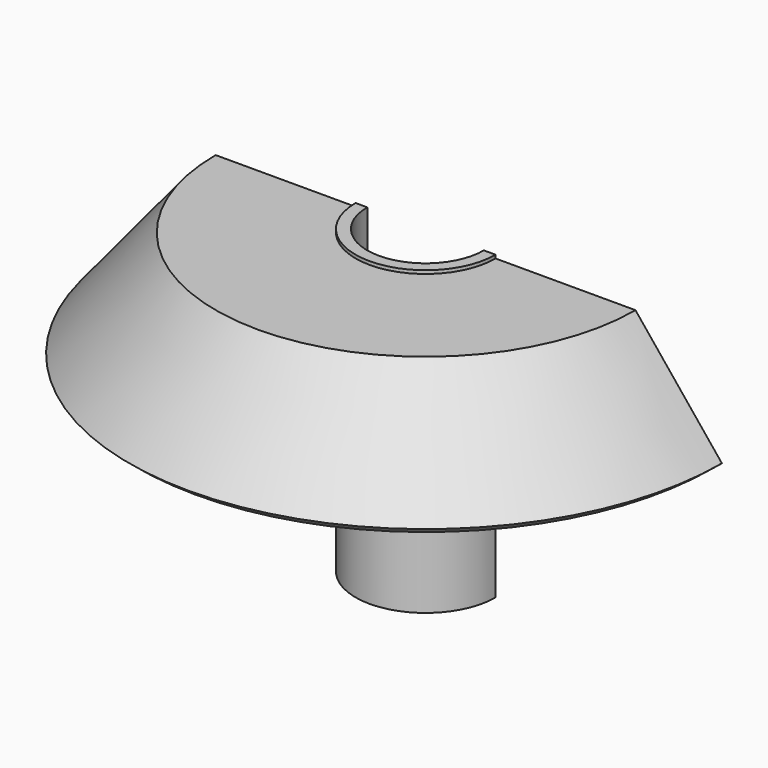
from build123d import *

# Parameters (mm, degrees)
F1_ANGLE = 180
F2_W     = 30.71798
F2_H     = 26.843641
F3_DEPTH = 100


with BuildPart() as f1:
    # F0 (on Right) → F1 (revolve, symmetric)
    with BuildSketch(Plane.YZ) as f1_sk:
        Polygon((-15, -70.817309), (0, -70.817309), (0, -68.317309), (-12.5, -68.317309), (-12.500003, 20.655008), (-15.000003, 20.655008), (-15.000003, -6.844992), (-45.000003, -6.844992), (-63.529334, -29.72469), (-61.58654, -31.298079), (-45.000003, -10.817309), (-15, -10.817309), align=None)
    revolve(axis=Axis((0, 0, -69.567309), (0, 0, 1)), revolution_arc=F1_ANGLE / 2)
    revolve(f1_sk.sketch, axis=Axis((0, 0, -69.567309), (0, 0, -1)), revolution_arc=F1_ANGLE / 2)

    # F2 (on Front) → F3 (cut)
    with BuildSketch(Plane.XZ):
        with Locations((-0.268487, 7.287501)):
            Rectangle(F2_W, F2_H)
    extrude(amount=F3_DEPTH, mode=Mode.SUBTRACT)


solid = f1.part
